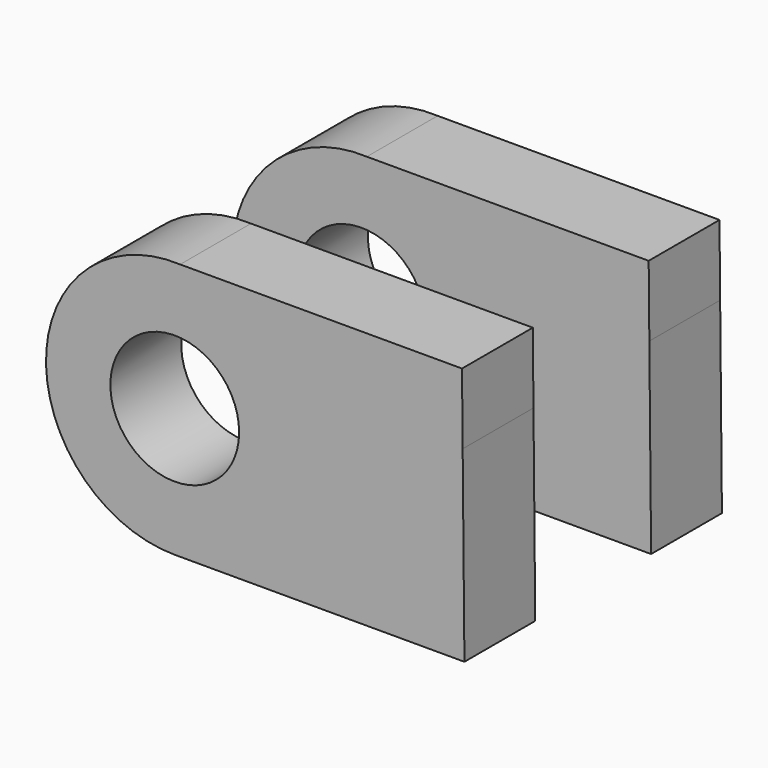
from build123d import *

# Parameters (mm, degrees)
F0_R     = 8
F1_DEPTH = 11


with BuildPart() as f1:
    # F0 (on Front) → F1 (new body)
    with BuildSketch(Plane.XZ):
        with BuildLine():
            Line((25.563765, 0.762592), (25.481103, 9.519349))
            Line((25.481103, 9.519349), (-9.545922, 9.519349))
            ThreePointArc((-9.545922, 9.519349), (-26.213436, -6.130982), (-10.216956, -22.466573))
            Line((-10.216956, -22.466573), (25.783044, -22.466573))
            Line((25.783044, -22.466573), (25.563765, 0.762592))
        make_face()
        with Locations((-10.216956, -6.466573)):
            Circle(F0_R, mode=Mode.SUBTRACT)
    extrude(amount=F1_DEPTH)


with BuildPart() as f2_1:
    # F2: copy of F1
    add(f1.part.moved(Location((0, 29, 0))))


solid = Compound([f1.part, f2_1.part])
